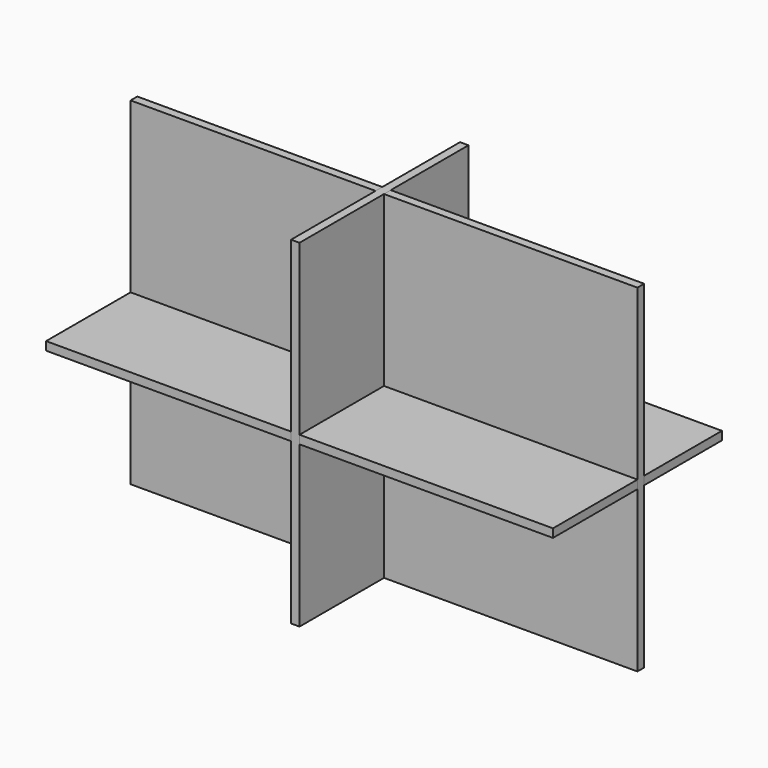
from build123d import *

# Parameters (mm, degrees)
F0_W      = 1200
F0_H      = 500
F1_DEPTH  = 20
F2_W      = 1200
F2_H      = 500
F3_DEPTH  = 20
F4_W      = 1200
F4_H      = 800
F5_DEPTH  = 20
F6_W      = 1200
F6_H      = 800
F7_DEPTH  = 20
F8_W      = 500
F8_H      = 800
F9_DEPTH  = 20
F10_W     = 500
F10_H     = 800
F11_DEPTH = 20


with BuildPart() as f1:
    # F0 (on Top) → F1 (new body)
    with BuildSketch(Plane.XY):
        Rectangle(F0_W, F0_H)
    extrude(amount=-F1_DEPTH)


with BuildPart() as f3:
    # F2 (on Top) → F3 (new body)
    with BuildSketch(Plane.XY):
        Rectangle(F2_W, F2_H)
    extrude(amount=-F3_DEPTH)


with BuildPart() as f5:
    # F4 (on Front) → F5 (new body)
    with BuildSketch(Plane.XZ):
        Rectangle(F4_W, F4_H)
    extrude(amount=-F5_DEPTH)


with BuildPart() as f7:
    # F6 (on Front) → F7 (new body)
    with BuildSketch(Plane.XZ):
        Rectangle(F6_W, F6_H)
    extrude(amount=-F7_DEPTH)


with BuildPart() as f9:
    # F8 (on Right) → F9 (new body)
    with BuildSketch(Plane.YZ):
        Rectangle(F8_W, F8_H)
    extrude(amount=-F9_DEPTH)


with BuildPart() as f11:
    # F10 (on Right) → F11 (new body)
    with BuildSketch(Plane.YZ):
        Rectangle(F10_W, F10_H)
    extrude(amount=-F11_DEPTH)


solid = Compound([f1.part, f3.part, f5.part, f7.part, f9.part, f11.part])
